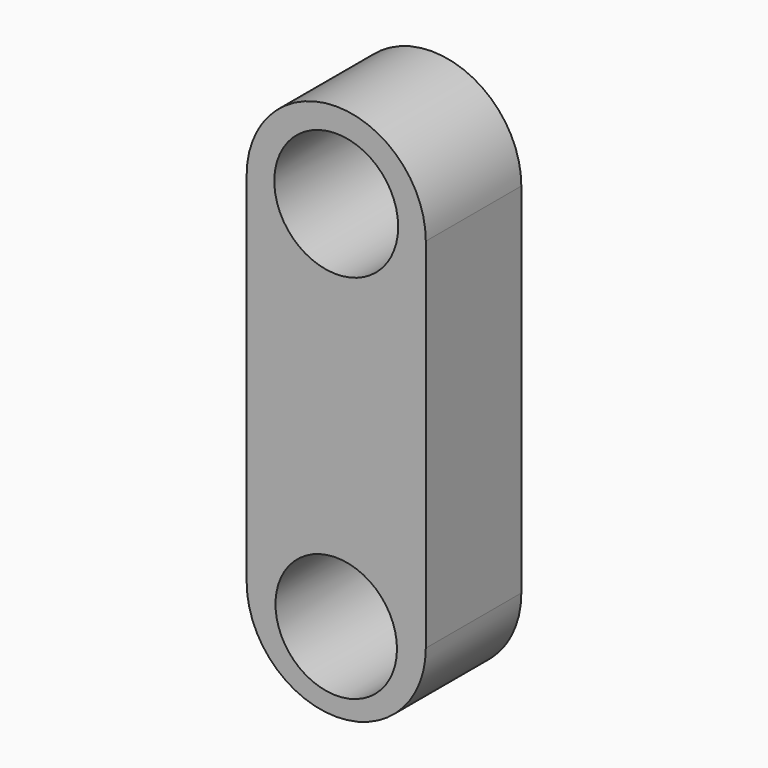
from build123d import *

# Parameters (mm, degrees)
F1_DEPTH = 25.4
F2_R     = 13.1732836579
F2_R_2   = 12.9207196234
F3_DEPTH = 100.584


with BuildPart() as f1:
    # F0 (on Front) → F1 (new body)
    with BuildSketch(Plane.XZ):
        with BuildLine():
            ThreePointArc((19.05, 38.1), (0, 57.15), (-19.05, 38.1))
            Line((-19.05, 38.1), (19.05, 38.1))
        make_face()
        with BuildLine():
            ThreePointArc((19.05, 38.1), (0, 19.05), (-19.05, 38.1))
            Line((-19.05, 38.1), (-19.05, -38.1))
            ThreePointArc((-19.05, -38.1), (0, -19.05), (19.05, -38.1))
            Line((19.05, -38.1), (19.05, 38.1))
        make_face()
        with BuildLine():
            Line((19.05, 38.1), (-19.05, 38.1))
            ThreePointArc((-19.05, 38.1), (0, 19.05), (19.05, 38.1))
        make_face()
        with BuildLine():
            ThreePointArc((19.05, -38.1), (0, -19.05), (-19.05, -38.1))
            Line((-19.05, -38.1), (19.05, -38.1))
        make_face()
        with BuildLine():
            Line((19.05, -38.1), (-19.05, -38.1))
            ThreePointArc((-19.05, -38.1), (0, -57.15), (19.05, -38.1))
        make_face()
    extrude(amount=F1_DEPTH)

    # F2 (on Front) → F3 (cut)
    with BuildSketch(Plane.XZ):
        with Locations((0, 38.894508034)):
            Circle(F2_R)
        with Locations((0, -40.2522981167)):
            Circle(F2_R_2)
    extrude(amount=F3_DEPTH, mode=Mode.SUBTRACT)


solid = f1.part
